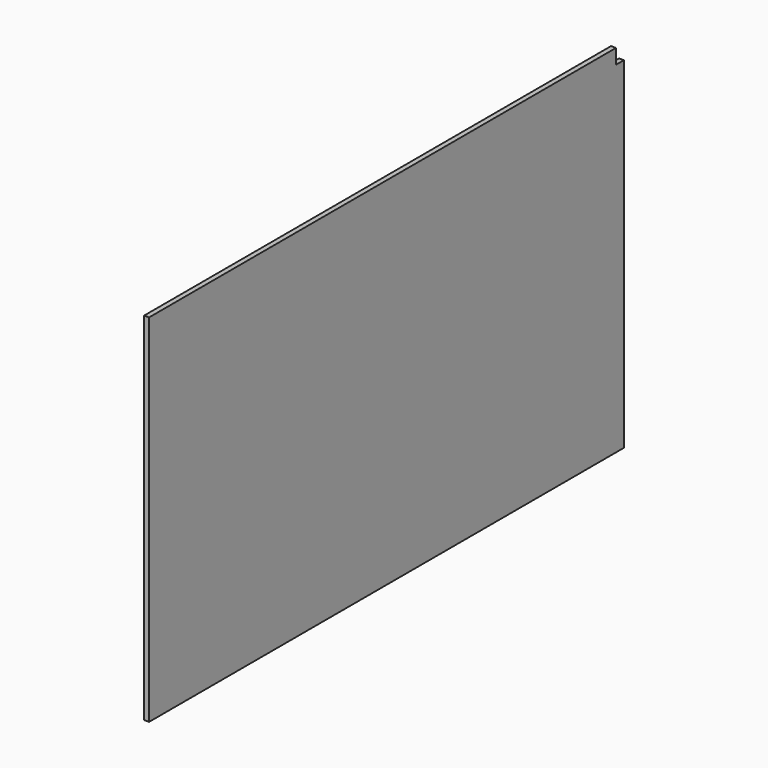
from build123d import *

# Parameters (mm, degrees)
F0_W     = 6.35
F0_H     = 457.2
F1_DEPTH = 381
F2_W     = 12.7
F2_H     = 19.05
F3_DEPTH = 6.351


with BuildPart() as f1:
    # F0 (on Front) → F1 (new body, symmetric)
    with BuildSketch(Plane.XZ):
        with Locations((-3.175, 228.6)):
            Rectangle(F0_W, F0_H)
    extrude(amount=F1_DEPTH, both=True)

    # F2 (on face) → F3 (cut, through all)
    with BuildSketch(Plane(origin=(-6.35, 0, 0), x_dir=(0, -1, 0), z_dir=(-1, 0, 0))):
        with Locations((-374.65, 447.675)):
            Rectangle(F2_W, F2_H)
    extrude(amount=-F3_DEPTH, mode=Mode.SUBTRACT)


solid = f1.part
